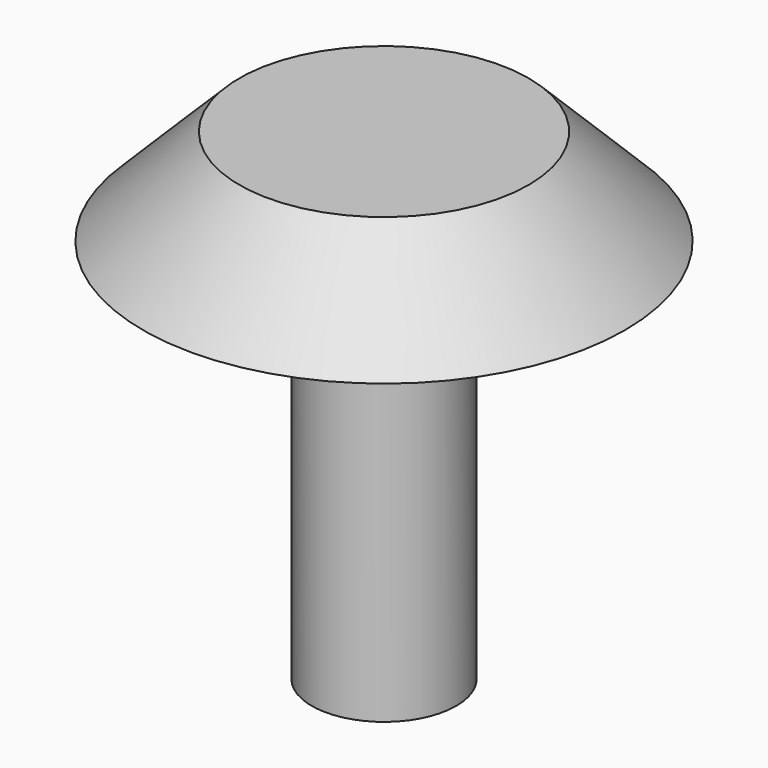
from build123d import *

# Parameters (mm, degrees)
F0_R     = 50
F1_DEPTH = 20
F1_TAPER = 45
F2_R     = 15
F3_DEPTH = 80


with BuildPart() as f1:
    # F0 (on Top) → F1 (new body)
    with BuildSketch(Plane.XY):
        Circle(F0_R)
    extrude(amount=F1_DEPTH, taper=F1_TAPER)

    # F2 (on face) → F3 (join)
    with BuildSketch(Plane(origin=(0, 0, 0), x_dir=(1, 0, 0), z_dir=(0, 0, -1))):
        Circle(F2_R)
    extrude(amount=F3_DEPTH)


solid = f1.part
